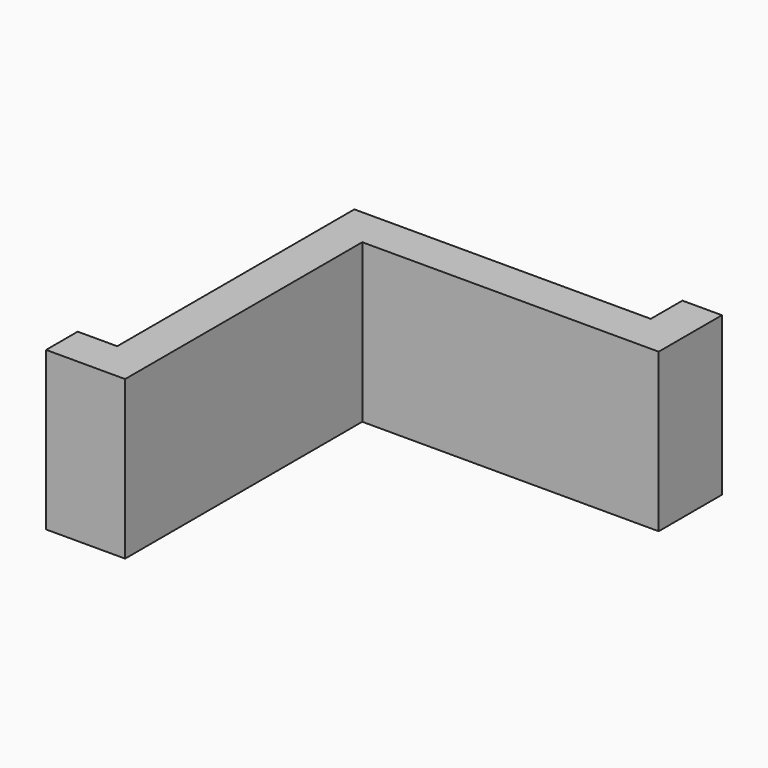
from build123d import *

# Parameters (mm, degrees)
F1_DEPTH = 25.4
F3_W     = 6.35
F3_H     = 25.4
F4_DEPTH = 6.35
F2_W     = 6.35
F2_H     = 25.4
F5_DEPTH = 6.35


with BuildPart() as f1:
    # F0 (on Top) → F1 (new body)
    with BuildSketch(Plane.XY):
        Polygon((-31.75, -22.225), (-25.4, -22.225), (-25.4, 25.4), (22.225, 25.4), (22.225, 31.75), (-31.75, 31.75), align=None)
    extrude(amount=F1_DEPTH)

    # F3 (on face) → F4 (join)
    with BuildSketch(Plane(origin=(0, 31.75, 0), x_dir=(-1, 0, 0), z_dir=(0, 1, 0))):
        with Locations((-19.05, 12.7)):
            Rectangle(F3_W, F3_H)
    extrude(amount=F4_DEPTH)

    # F2 (on face) → F5 (join)
    with BuildSketch(Plane(origin=(-31.75, 0, 0), x_dir=(0, -1, 0), z_dir=(-1, 0, 0))):
        with Locations((19.05, 12.7)):
            Rectangle(F2_W, F2_H)
    extrude(amount=F5_DEPTH)


solid = f1.part
